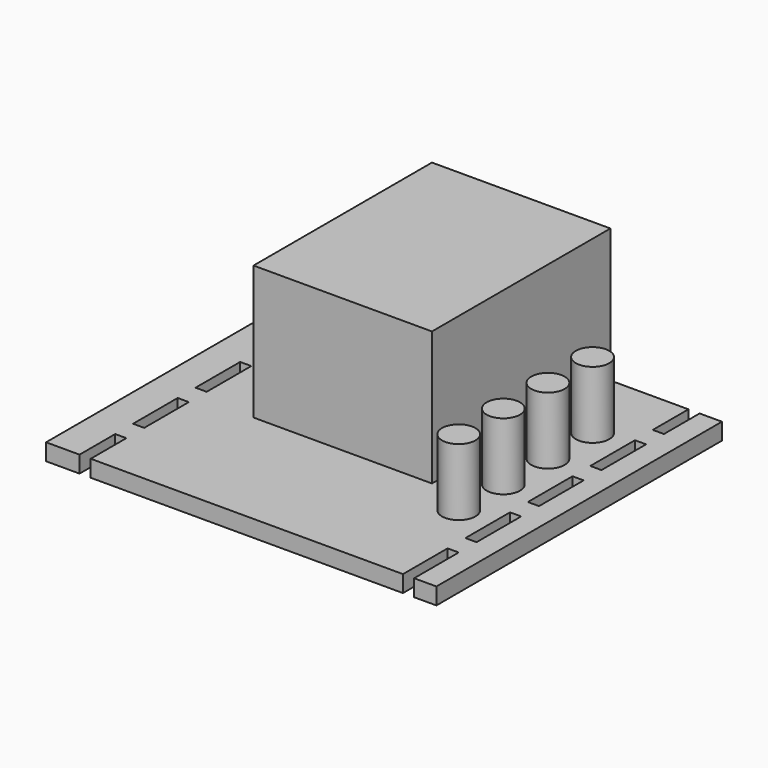
from build123d import *

# Parameters (mm, degrees)
F0_W     = 35
F0_H     = 32
F1_DEPTH = 1.5
F2_W     = 16
F2_H     = 20
F3_DEPTH = 12
F4_R     = 1.5
F5_DEPTH = 6
F6_W     = 1
F6_H     = 5
F7_DEPTH = 1.5


with BuildPart() as f1:
    # F0 (on Top) → F1 (new body)
    with BuildSketch(Plane.XY):
        Rectangle(F0_W, F0_H)
    extrude(amount=F1_DEPTH)

    # F2 (on face) → F3 (join)
    with BuildSketch(Plane.XY.offset(1.5)):
        with Locations((-0.5, 6)):
            Rectangle(F2_W, F2_H)
    extrude(amount=F3_DEPTH)

    # F4 (on face) → F5 (join)
    with BuildSketch(Plane.XY.offset(1.5)):
        with Locations((11.5, 9)):
            Circle(F4_R)
        with Locations((11.5, 4)):
            Circle(F4_R)
        with Locations((11.5, -1)):
            Circle(F4_R)
        with Locations((11.5, -6)):
            Circle(F4_R)
    extrude(amount=F5_DEPTH)

    # F6 (on face) → F7 (cut, through all)
    with BuildSketch(Plane.XY.offset(1.5)):
        with Locations((-14, 13.5)):
            Rectangle(F6_W, F6_H)
        with Locations((-14, 6.5)):
            Rectangle(F6_W, F6_H)
        with Locations((-14, -0.5)):
            Rectangle(F6_W, F6_H)
        with Locations((-14, -7.5)):
            Rectangle(F6_W, F6_H)
        with Locations((-14, -14.5)):
            Rectangle(F6_W, F6_H)
        with Locations((15, -13.5)):
            Rectangle(F6_W, F6_H)
        with Locations((15, -6.5)):
            Rectangle(F6_W, F6_H)
        with Locations((15, 0.5)):
            Rectangle(F6_W, F6_H)
        with Locations((15, 7.5)):
            Rectangle(F6_W, F6_H)
        with Locations((15, 14.5)):
            Rectangle(F6_W, F6_H)
    extrude(amount=-F7_DEPTH, mode=Mode.SUBTRACT)


solid = f1.part
